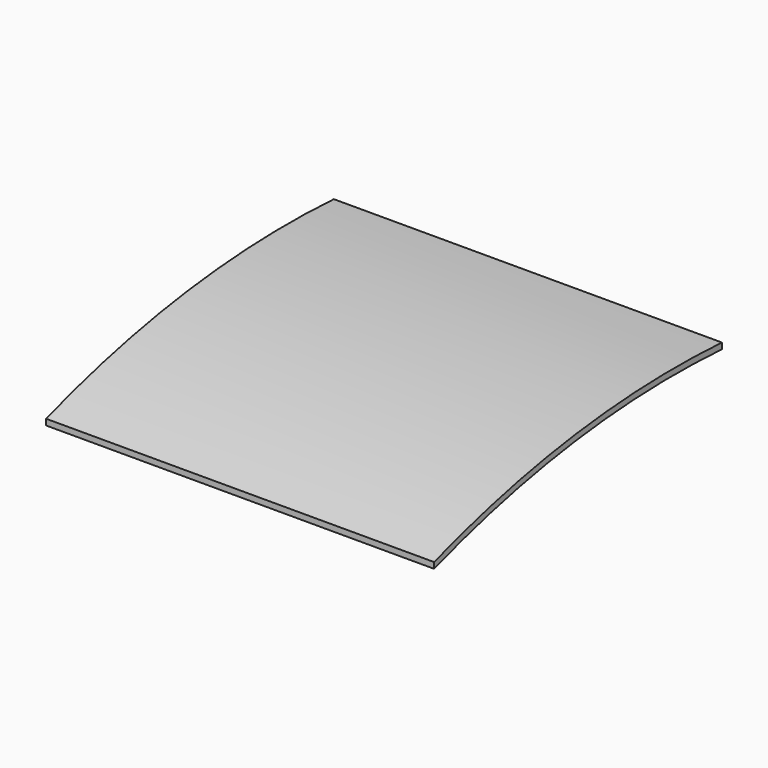
from build123d import *

# Parameters (mm, degrees)
F1_DEPTH = 325


with BuildPart() as f1:
    # F0 (on Right) → F1 (new body, symmetric)
    with BuildSketch(Plane.YZ):
        with BuildLine():
            Line((141.599268, 15.37068), (141.599268, 25.37068))
            ThreePointArc((141.599268, 25.37068), (-163.480957, 14.812293), (-461.019732, -53.42333))
            Line((-461.019732, -53.42333), (-461.019732, -63.42333))
            ThreePointArc((-461.019732, -63.42333), (-163.511204, 5.043624), (141.599268, 15.37068))
        make_face()
    extrude(amount=F1_DEPTH, both=True)


solid = f1.part
